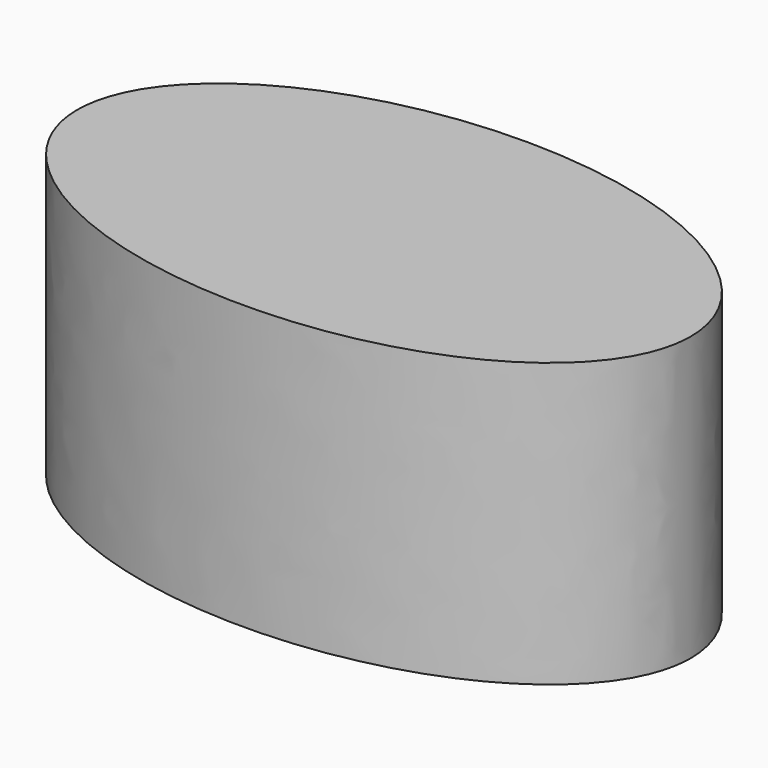
from build123d import *

# Parameters (mm, degrees)
F1_DEPTH = 12


with BuildPart() as f1:
    # F0 (on Top) → F1 (new body)
    with BuildSketch(Plane.XY):
        with BuildLine():
            add(Edge.make_bspline(
                [(13, 0), (13, 12.990381), (-6.5, 6.495191), (-26, 0), (-6.5, -6.495191), (13, -12.990381), (13, 0)],
                knots=[0, 0, 0, 2.094395, 2.094395, 4.18879, 4.18879, 6.283185, 6.283185, 6.283185], degree=2, weights=[1, 0.5, 1, 0.5, 1, 0.5, 1]))
        make_face()
    extrude(amount=-F1_DEPTH)


solid = f1.part
